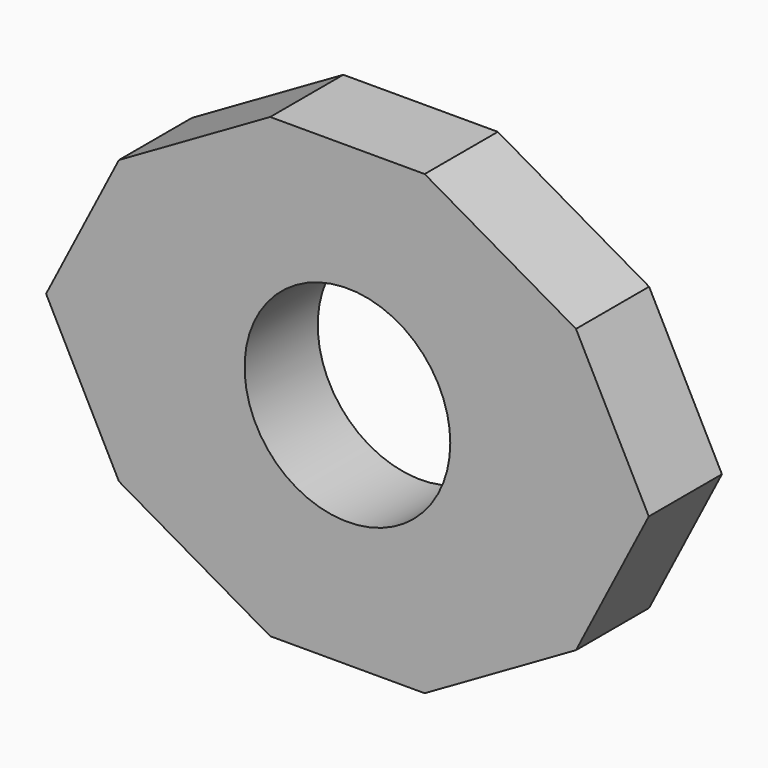
from build123d import *

# Parameters (mm, degrees)
F0_R     = 22.5
F1_DEPTH = 20


with BuildPart() as f1:
    # F0 (on Front) → F1 (new body)
    with BuildSketch(Plane.XZ):
        Polygon((16.897677, 50), (-16.897677, 50), (-50, 30.941529), (-50, -30.941529), (-16.897677, -50), (16.897677, -50), (50, -30.941529), (50, 30.941529), align=None)
        Circle(F0_R, mode=Mode.SUBTRACT)
        Polygon((-50, -30.941529), (-50, 30.941529), (-65.928897, 0), align=None)
        Polygon((65.928897, 0), (50, 30.941529), (50, -30.941529), align=None)
    extrude(amount=F1_DEPTH)


solid = f1.part
